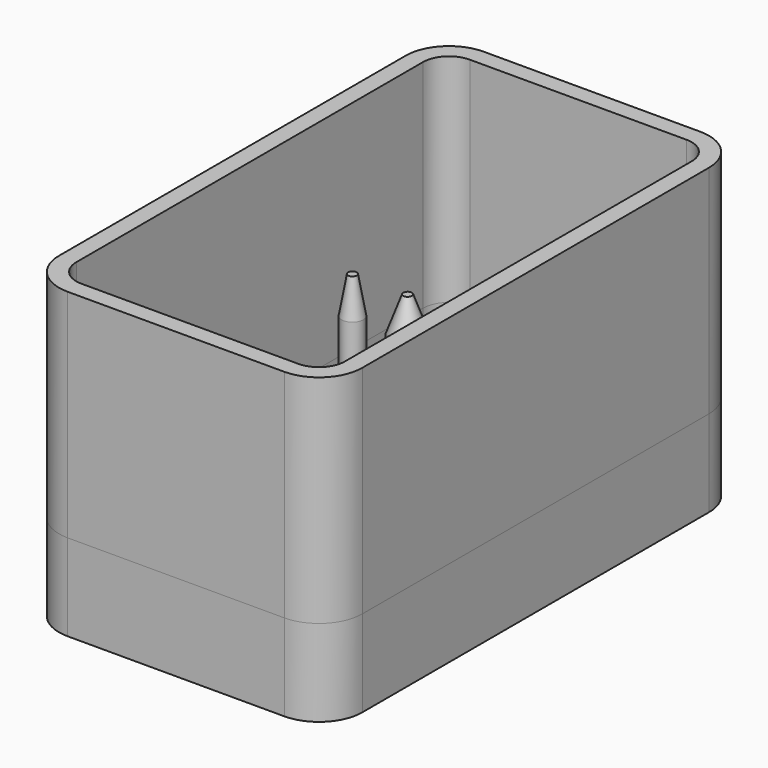
from build123d import *

# Parameters (mm, degrees)
F0_R          = 2.5
F0_R_2        = 4
F1_DEPTH      = 35
F2_SIZE2      = 8.2424322584
F2_SIZE       = 3
F3_SIZE2      = 8.5069227294
F3_SIZE       = 1.5
F4_W          = 70
F4_H          = 120
F5_DEPTH      = 50
F6_R          = 10
F7_DEPTH      = 20
F9_DEPTH      = 20.001
F9_DEPTH_BACK = 50.001


with BuildPart() as f1:
    # F0 (on Top) → F1 (new body)
    with BuildSketch(Plane.XY):
        with Locations((-7.2778258292, 0)):
            Circle(F0_R)
        with Locations((5.452941441, 0)):
            Circle(F0_R_2)
    extrude(amount=F1_DEPTH)

    # F2
    f2_edges = [f1.edges().sort_by_distance(p)[0] for p in [
        (1.452941, 0, 35),
    ]]
    f2_side = f1.faces().sort_by_distance((5.452941, 0, 35))[0]
    chamfer(f2_edges, length=F2_SIZE, length2=F2_SIZE2, reference=f2_side)

    # F3
    f3_edges = [f1.edges().sort_by_distance(p)[0] for p in [
        (-9.777826, 0, 35),
    ]]
    f3_side = f1.faces().sort_by_distance((-7.277826, 0, 35))[0]
    chamfer(f3_edges, length=F3_SIZE, length2=F3_SIZE2, reference=f3_side)


with BuildPart() as f5:
    # F4 (on Top) → F5 (new body)
    with BuildSketch(Plane.XY):
        Rectangle(F4_W, F4_H)
    extrude(amount=F5_DEPTH)

    # F6
    f6_edges = [f5.edges().sort_by_distance(p)[0] for p in [
        (-35, 60, 25),
        (35, 60, 25),
        (35, -60, 25),
        (-35, -60, 25),
    ]]
    fillet(f6_edges, radius=F6_R)


with BuildPart() as f7:
    # F7 (new): a face of the model
    f7_faces = [f5.part.faces().sort_by_distance(p)[0] for p in [
        (0, 0, 0),
    ]]
    extrude(f7_faces, amount=F7_DEPTH)


with BuildPart() as f9_tool:
    # F8 (on Top) → F9 (new body, two sides)
    with BuildSketch(Plane.XY) as f9_sk:
        with BuildLine():
            Line((-31, 50), (-31, -50))
            ThreePointArc((-31, -50), (-29.2426406871, -54.2426406871), (-25, -56))
            Line((-25, -56), (25, -56))
            ThreePointArc((25, -56), (29.2426406871, -54.2426406871), (31, -50))
            Line((31, -50), (31, 50))
            ThreePointArc((31, 50), (29.2426406871, 54.2426406871), (25, 56))
            Line((25, 56), (-25, 56))
            ThreePointArc((-25, 56), (-29.2426406871, 54.2426406871), (-31, 50))
        make_face()
    extrude(amount=-F9_DEPTH)
    extrude(f9_sk.sketch, amount=F9_DEPTH_BACK)


with BuildPart() as f5_1:
    add(f5.part)

    # F9: cut by f9_tool
    add(f9_tool.part, mode=Mode.SUBTRACT)


with BuildPart() as f7_1:
    add(f7.part)

    # F9: cut by f9_tool
    add(f9_tool.part, mode=Mode.SUBTRACT)


solid = Compound([f1.part, f5_1.part, f7_1.part])
